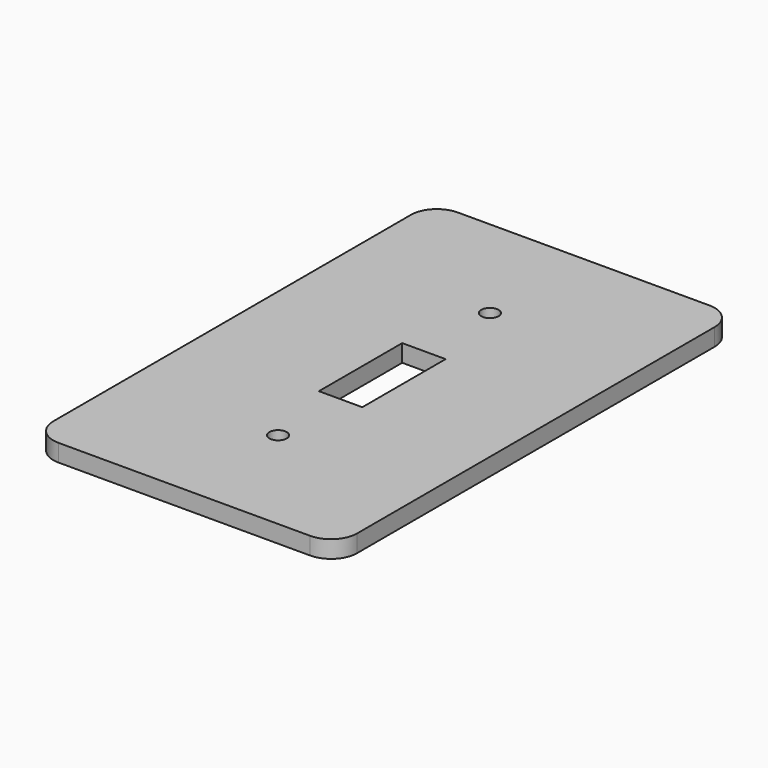
from build123d import *

# Parameters (mm, degrees)
F0_W     = 70
F0_H     = 115
F0_R     = 2
F0_W_2   = 10
F0_H_2   = 24
F1_DEPTH = 4
F2_R     = 6


with BuildPart() as f1:
    # F0 (on Top) → F1 (new body)
    with BuildSketch(Plane.XY):
        with Locations((35, 57.5)):
            Rectangle(F0_W, F0_H)
        with Locations((35, 27)):
            Circle(F0_R, mode=Mode.SUBTRACT)
        with Locations((35, 57)):
            Rectangle(F0_W_2, F0_H_2, mode=Mode.SUBTRACT)
        with Locations((35, 88)):
            Circle(F0_R, mode=Mode.SUBTRACT)
    extrude(amount=F1_DEPTH)

    # F2
    f2_edges = [f1.edges().sort_by_distance(p)[0] for p in [
        (0, 115, 2),
        (70, 115, 2),
        (70, 0, 2),
        (0, 0, 2),
    ]]
    fillet(f2_edges, radius=F2_R)


solid = f1.part
